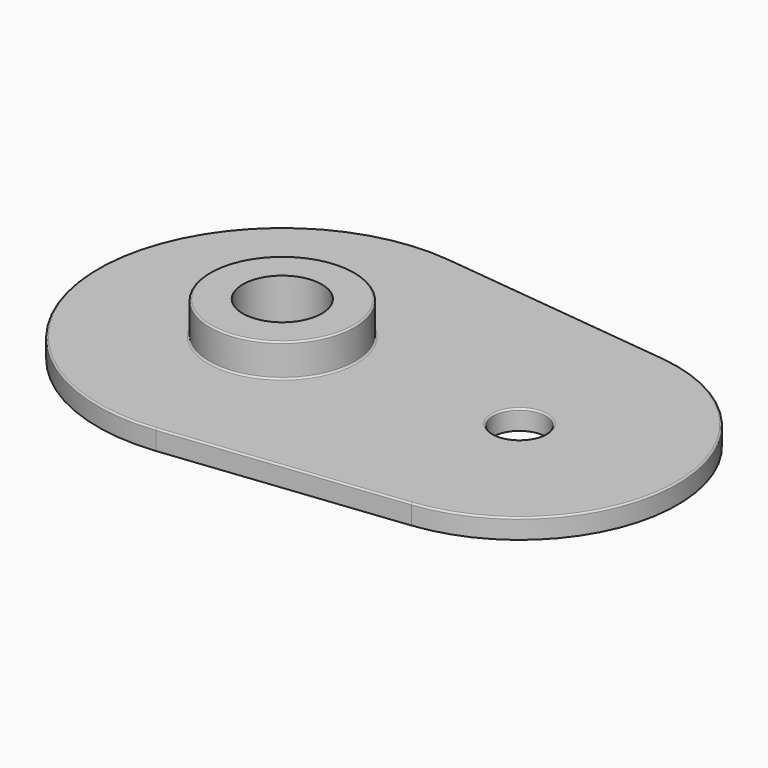
from build123d import *

# Parameters (mm, degrees)
F1_DEPTH = 9.525
F2_R     = 34.925
F3_DEPTH = 15.875
F4_R     = 19.05
F4_R_2   = 12.7
F5_DEPTH = 25.401
F6_R     = 0.79375


with BuildPart() as f1:
    # F0 (on Top) → F1 (new body)
    with BuildSketch(Plane.XY):
        with BuildLine():
            Line((122.766667, 75.728169), (9.877778, 88.34953))
            ThreePointArc((9.877778, 88.34953), (-88.9, 0), (9.877778, -88.34953))
            Line((9.877778, -88.34953), (122.766667, -75.728169))
            ThreePointArc((122.766667, -75.728169), (190.5, 0), (122.766667, 75.728169))
        make_face()
    extrude(amount=F1_DEPTH)

    # F2 (on face) → F3 (join)
    with BuildSketch(Plane.XY.offset(9.525)):
        Circle(F2_R)
        Circle(F2_R)
    extrude(amount=F3_DEPTH)

    # F4 (on face) → F5 (cut, through all)
    with BuildSketch(Plane.XY.offset(25.4)):
        Circle(F4_R)
        with Locations((114.3, 0)):
            Circle(F4_R_2)
    extrude(amount=-F5_DEPTH, mode=Mode.SUBTRACT)

    # F6
    f6_edges = [f1.edges().sort_by_distance(p)[0] for p in [
        (-34.925, 0, 9.525),
        (-34.925, 0, 25.4),
        (190.5, 0, 9.525),
        (66.322222, -82.03885, 9.525),
        (-88.9, 0, 9.525),
        (66.322222, 82.03885, 9.525),
        (101.6, 0, 9.525),
    ]]
    fillet(f6_edges, radius=F6_R)


solid = f1.part
